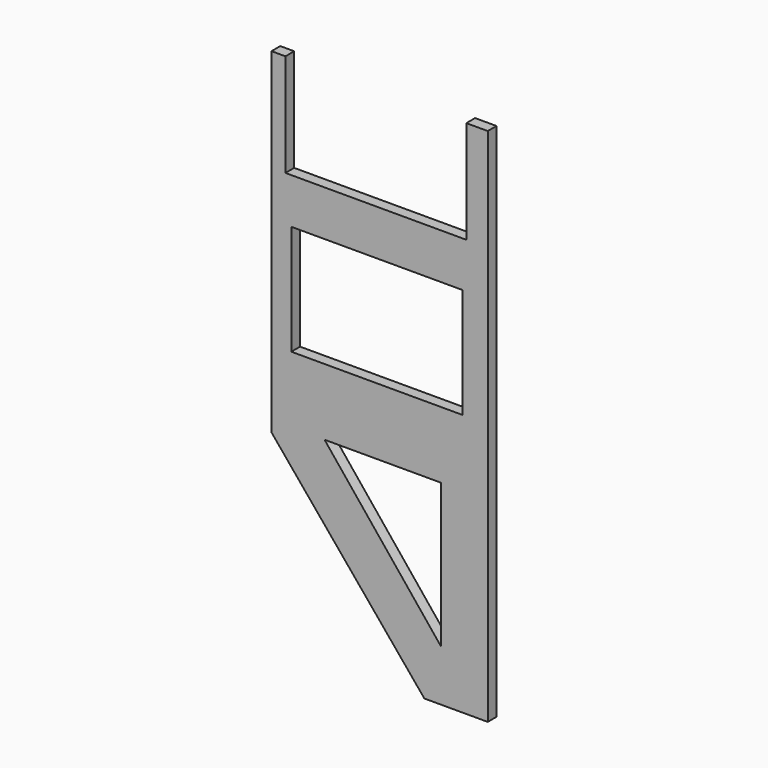
from build123d import *

# Parameters (mm, degrees)
PAD017_DEPTH    = 50
POCKET_DEPTH    = 59
SKETCH019_W     = 780.912842
SKETCH019_H     = 501.60791
POCKET001_DEPTH = 60
SKETCH020_W     = 824.843506
SKETCH020_H     = 493.205078
POCKET002_DEPTH = 60


with BuildPart() as part:
    # Sketch017 → Pad017 (new body)
    with BuildSketch(Plane.XZ):
        Polygon((-3036.804688, 4960.135254), (-3036.804688, 3429.500488), (-2339.515625, 2587.651367), (-2050.395752, 2587.651367), (-2050.395752, 4960.135254), align=None)
    extrude(amount=PAD017_DEPTH)

    # Sketch018 (on Face7 of Pad017) → Pocket (cut)
    with BuildSketch(Plane.XZ.offset(50)):
        Polygon((-2794.763916, 3478.686768), (-2263.660645, 2821.494141), (-2263.660645, 3478.686768), align=None)
    extrude(amount=-POCKET_DEPTH, mode=Mode.SUBTRACT)

    # Sketch019 (on Face5 of Pocket) → Pocket001 (cut)
    with BuildSketch(Plane.XZ.offset(50)):
        with Locations((-2555.920776, 4033.548584)):
            Rectangle(SKETCH019_W, SKETCH019_H)
    extrude(amount=-POCKET001_DEPTH, mode=Mode.SUBTRACT)

    # Sketch020 (on Face5 of Pocket001) → Pocket002 (cut)
    with BuildSketch(Plane.XZ.offset(50)):
        with Locations((-2560.651733, 4738.429199)):
            Rectangle(SKETCH020_W, SKETCH020_H)
    extrude(amount=-POCKET002_DEPTH, mode=Mode.SUBTRACT)


with BuildPart() as part_1:
    # Body015 placement: moved
    add(part.part.moved(Location((0, 424, 0))))


solid = part_1.part
